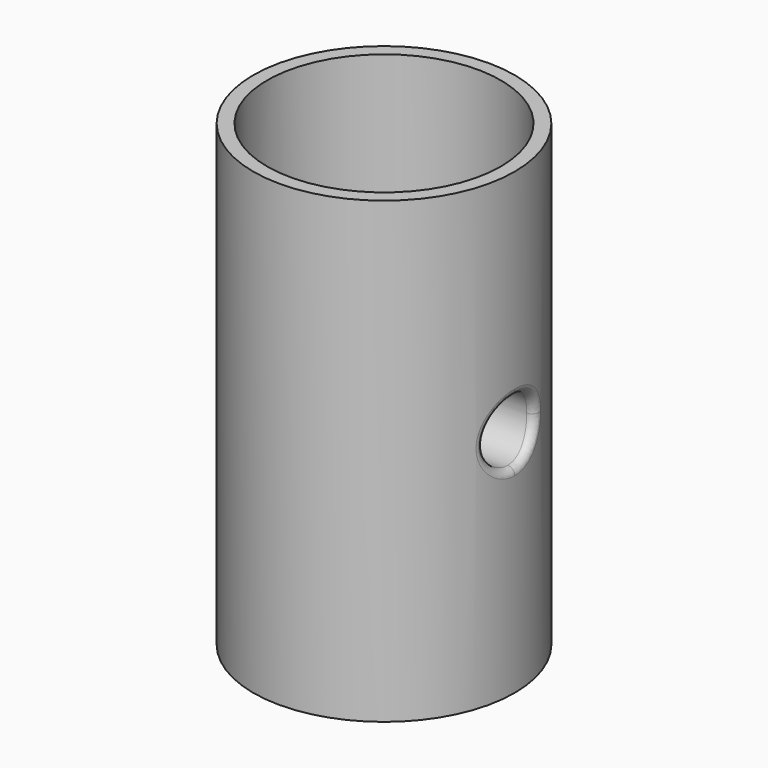
from build123d import *

# Parameters (mm, degrees)
F0_R      = 18.8
F0_R_2    = 16.8
F1_DEPTH  = 66
F2_R      = 4.5
F3_DEPTH  = 20
F2_R_2    = 6
F4_DEPTH  = 17.75
F5_DEPTH  = 2
F6_R      = 1
F0_R_3    = 16.3
F7_DEPTH  = 23
F8_DEPTH  = 22
F9_R      = 16.8
F9_R_2    = 16.3
F10_DEPTH = 23
F11_DEPTH = 22


with BuildPart() as f1:
    # F0 (on Top) → F1 (new body)
    with BuildSketch(Plane.XY):
        Circle(F0_R)
        Circle(F0_R_2, mode=Mode.SUBTRACT)
    extrude(amount=F1_DEPTH)

    # F2 (on Right) → F3 (cut, symmetric)
    with BuildSketch(Plane.YZ):
        with Locations((0, 33)):
            Circle(F2_R)
    extrude(amount=F3_DEPTH, both=True, mode=Mode.SUBTRACT)

    # F2 (on Right) → F4 (join, symmetric)
    with BuildSketch(Plane.YZ):
        with Locations((0, 33)):
            Circle(F2_R_2)
        with Locations((0, 33)):
            Circle(F2_R, mode=Mode.SUBTRACT)
    extrude(amount=F4_DEPTH, both=True)

    # F2 (on Right) → F5 (join)
    with BuildSketch(Plane.YZ):
        with Locations((0, 33)):
            Circle(F2_R)
    extrude(amount=F5_DEPTH)

    # F6
    f6_edges = [f1.edges().sort_by_distance(p)[0] for p in [
        (18.253493, -4.5, 33),
        (18.528742, 3.182095, 36.181867),
        (18.528742, 3.182095, 29.818133),
        (-18.253493, -4.5, 33),
    ]]
    fillet(f6_edges, radius=F6_R)

    # F0 (on Top) → F7 (join)
    with BuildSketch(Plane.XY):
        Circle(F0_R_2)
        Circle(F0_R_3, mode=Mode.SUBTRACT)
    extrude(amount=F7_DEPTH)

    # F0 (on Top) → F8 (cut)
    with BuildSketch(Plane.XY):
        Circle(F0_R_2)
        Circle(F0_R_3, mode=Mode.SUBTRACT)
    extrude(amount=F8_DEPTH, mode=Mode.SUBTRACT)

    # F9 (on face) → F10 (join)
    with BuildSketch(Plane.XY.offset(66)):
        Circle(F9_R)
        Circle(F9_R_2, mode=Mode.SUBTRACT)
    extrude(amount=-F10_DEPTH)

    # F9 (on face) → F11 (cut)
    with BuildSketch(Plane.XY.offset(66)):
        Circle(F9_R)
        Circle(F9_R_2, mode=Mode.SUBTRACT)
    extrude(amount=-F11_DEPTH, mode=Mode.SUBTRACT)


solid = f1.part
